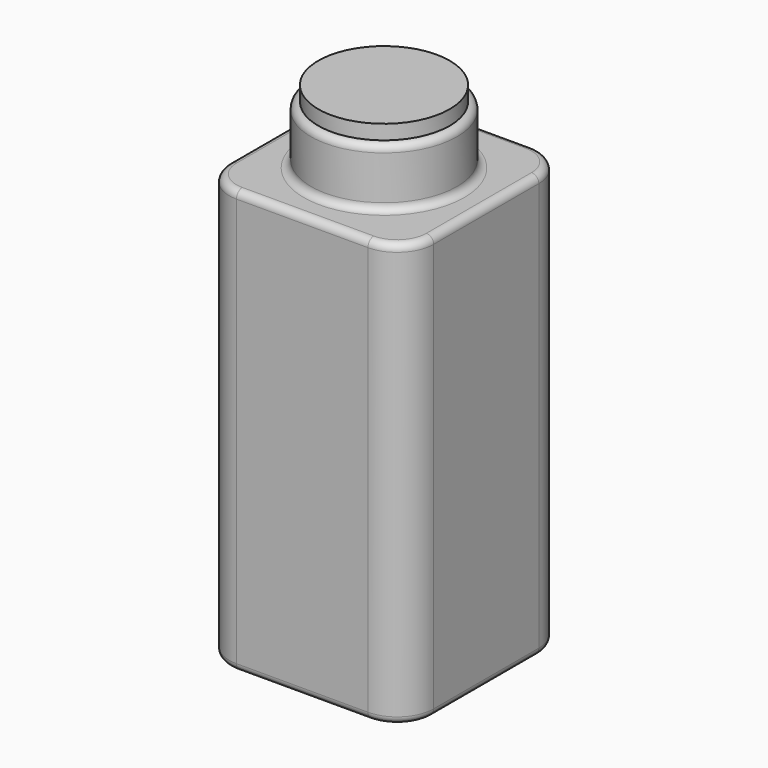
from build123d import *

# Parameters (mm, degrees)
F0_W     = 28
F0_H     = 28
F1_DEPTH = 58
F2_R     = 10
F3_DEPTH = 8
F4_R     = 5
F5_R     = 1
F6_T     = -2.5
F7_R     = 1


with BuildPart() as f1:
    # F0 (on Top) → F1 (new body)
    with BuildSketch(Plane.XY):
        Rectangle(F0_W, F0_H)
    extrude(amount=F1_DEPTH)

    # F2 (on face) → F3 (join)
    with BuildSketch(Plane.XY.offset(58)):
        Circle(F2_R)
    extrude(amount=F3_DEPTH)

    # F4
    f4_edges = [f1.edges().sort_by_distance(p)[0] for p in [
        (-14, -14, 29),
        (14, -14, 29),
        (14, 14, 29),
        (-14, 14, 29),
    ]]
    fillet(f4_edges, radius=F4_R)

    # F5
    f5_edges = [f1.edges().sort_by_distance(p)[0] for p in [
        (-10, 0, 58),
        (-14, 0, 58),
        (-14, 0, 0),
    ]]
    fillet(f5_edges, radius=F5_R)

    # F6
    f6_openings = [f1.faces().sort_by_distance(p)[0] for p in [
        (0, 0, 66),
    ]]
    offset(amount=F6_T, openings=f6_openings)

    # F7
    f7_edges = [f1.edges().sort_by_distance(p)[0] for p in [
        (-10, 0, 66),
        (-7.5, 0, 66),
    ]]
    fillet(f7_edges, radius=F7_R)


with BuildPart() as f9:
    # F8 (on Front) → F9 (revolve)
    with BuildSketch(Plane.XZ):
        Polygon((9, 68), (0, 68), (0, 61), (7.3, 61), (7.3, 66), (9, 66), align=None)
    revolve(axis=Axis((0, 0, 64.5), (0, 0, -1)))


solid = Compound([f1.part, f9.part])
